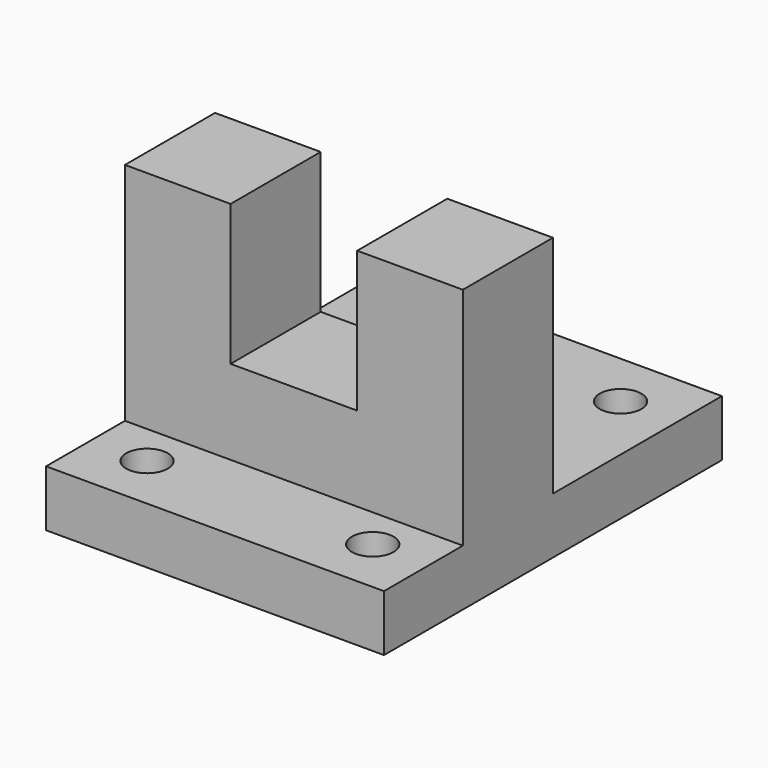
from build123d import *

# Parameters (mm, degrees)
F0_W     = 23.8252
F0_H     = 31.75
F1_DEPTH = 25.4
F2_W     = 76.2
F2_H     = 12.7
F3_DEPTH = 47.625
F4_R     = 4.699
F5_DEPTH = 12.701
F6_R     = 4.699
F7_DEPTH = 33.02


with BuildPart() as f1:
    # F0 (on Front) → F1 (new body)
    with BuildSketch(Plane.XZ):
        with Locations((26.1874, 15.875)):
            Rectangle(F0_W, F0_H)
        Polygon((38.1, -31.75), (38.1, 0), (14.2748, 0), (-14.2748, 0), (-14.2748, 31.75), (-38.1, 31.75), (-38.1, -31.75), align=None)
    extrude(amount=F1_DEPTH)

    # F2 (on face) → F3 (join, symmetric)
    with BuildSketch(Plane(origin=(0, 0, 0), x_dir=(-1, 0, 0), z_dir=(0, 1, 0))):
        with Locations((0, -25.4)):
            Rectangle(F2_W, F2_H)
    extrude(amount=F3_DEPTH, both=True)

    # F4 (on face) → F5 (cut, through all)
    with BuildSketch(Plane.XY.offset(-19.05)):
        with Locations((-25.4996093811, -34.925)):
            Circle(F4_R)
        with Locations((25.4, -34.925)):
            Circle(F4_R)
    extrude(amount=-F5_DEPTH, mode=Mode.SUBTRACT)

    # F6 (on face) → F7 (cut, symmetric)
    with BuildSketch(Plane.XY.offset(-19.05)):
        with Locations((-25.4, 34.925)):
            Circle(F6_R)
        with Locations((25.4, 34.925)):
            Circle(F6_R)
    extrude(amount=F7_DEPTH, both=True, mode=Mode.SUBTRACT)


solid = f1.part
